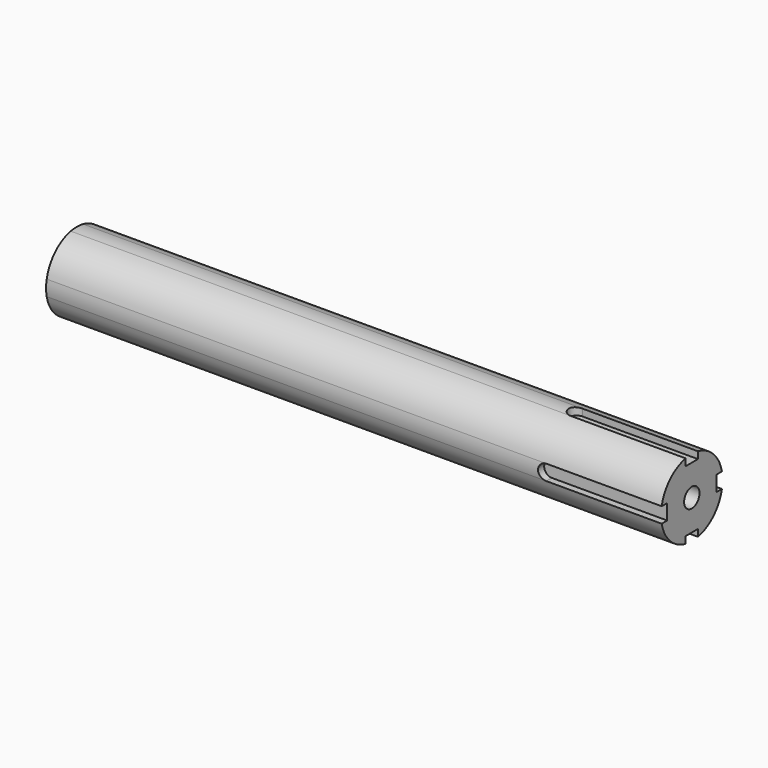
from build123d import *

# Parameters (mm, degrees)
F0_W      = 4
F0_H      = 4
F1_DEPTH  = 30
F2_DEPTH  = 130
F3_R      = 2
F4_DEPTH  = 25
F5_R      = 2
F6_DEPTH  = 25
F7_R      = 2
F8_DEPTH  = 25
F9_R      = 2
F10_DEPTH = 25
F12_D     = 5
F12_DEPTH = 20
F12_TIP   = 1.5021515476


with BuildPart() as f1:
    # F0 (on Right) → F1 (new body)
    with BuildSketch(Plane.YZ):
        with BuildLine():
            ThreePointArc((2, 7.2284161474), (5.3033008589, 5.3033008589), (7.2284161474, 2))
            Line((7.2284161474, 2), (8, 2))
            Line((8, 2), (9.7979589711, 2))
            ThreePointArc((9.7979589711, 2), (7.0710678119, 7.0710678119), (2, 9.7979589711))
            Line((2, 9.7979589711), (2, 8))
            Line((2, 8), (2, 7.2284161474))
        make_face()
        with BuildLine():
            ThreePointArc((-7.2284161474, 2), (-5.3033008589, 5.3033008589), (-2, 7.2284161474))
            Line((-2, 7.2284161474), (-2, 8))
            Line((-2, 8), (-2, 9.7979589711))
            ThreePointArc((-2, 9.7979589711), (-7.0710678119, 7.0710678119), (-9.7979589711, 2))
            Line((-9.7979589711, 2), (-8, 2))
            Line((-8, 2), (-7.2284161474, 2))
        make_face()
        with BuildLine():
            Line((2, 2), (7.2284161474, 2))
            ThreePointArc((7.2284161474, 2), (5.3033008589, 5.3033008589), (2, 7.2284161474))
            Line((2, 7.2284161474), (2, 2))
        make_face()
        with BuildLine():
            Line((2, 2), (2, 7.2284161474))
            ThreePointArc((2, 7.2284161474), (0, 7.5), (-2, 7.2284161474))
            Line((-2, 7.2284161474), (-2, 2))
            Line((-2, 2), (2, 2))
        make_face()
        with BuildLine():
            Line((-2, 2), (-2, 7.2284161474))
            ThreePointArc((-2, 7.2284161474), (-5.3033008589, 5.3033008589), (-7.2284161474, 2))
            Line((-7.2284161474, 2), (-2, 2))
        make_face()
        with BuildLine():
            Line((-2, -2), (-2, 2))
            Line((-2, 2), (-7.2284161474, 2))
            ThreePointArc((-7.2284161474, 2), (-7.5, 0), (-7.2284161474, -2))
            Line((-7.2284161474, -2), (-2, -2))
        make_face()
        with BuildLine():
            ThreePointArc((7.2284161474, -2), (7.4317938987, -1.0091776094), (7.5, 0))
            ThreePointArc((7.5, 0), (7.4317938987, 1.0091776094), (7.2284161474, 2))
            Line((7.2284161474, 2), (2, 2))
            Line((2, 2), (2, -2))
            Line((2, -2), (7.2284161474, -2))
        make_face()
        Rectangle(F0_W, F0_H)
        with BuildLine():
            ThreePointArc((-2, -7.2284161474), (0, -7.5), (2, -7.2284161474))
            Line((2, -7.2284161474), (2, -2))
            Line((2, -2), (-2, -2))
            Line((-2, -2), (-2, -7.2284161474))
        make_face()
        with BuildLine():
            ThreePointArc((-7.2284161474, -2), (-5.3033008589, -5.3033008589), (-2, -7.2284161474))
            Line((-2, -7.2284161474), (-2, -2))
            Line((-2, -2), (-7.2284161474, -2))
        make_face()
        with BuildLine():
            ThreePointArc((2, -7.2284161474), (5.3033008589, -5.3033008589), (7.2284161474, -2))
            Line((7.2284161474, -2), (2, -2))
            Line((2, -2), (2, -7.2284161474))
        make_face()
        with BuildLine():
            Line((8, -2), (7.2284161474, -2))
            ThreePointArc((7.2284161474, -2), (5.3033008589, -5.3033008589), (2, -7.2284161474))
            Line((2, -7.2284161474), (2, -8))
            Line((2, -8), (2, -9.7979589711))
            ThreePointArc((2, -9.7979589711), (7.0710678119, -7.0710678119), (9.7979589711, -2))
            Line((9.7979589711, -2), (8, -2))
        make_face()
        with BuildLine():
            Line((-2, -8), (-2, -7.2284161474))
            ThreePointArc((-2, -7.2284161474), (-5.3033008589, -5.3033008589), (-7.2284161474, -2))
            Line((-7.2284161474, -2), (-8, -2))
            Line((-8, -2), (-9.7979589711, -2))
            ThreePointArc((-9.7979589711, -2), (-7.0710678119, -7.0710678119), (-2, -9.7979589711))
            Line((-2, -9.7979589711), (-2, -8))
        make_face()
        with BuildLine():
            Line((2, -8), (2, -7.2284161474))
            ThreePointArc((2, -7.2284161474), (0, -7.5), (-2, -7.2284161474))
            Line((-2, -7.2284161474), (-2, -8))
            Line((-2, -8), (2, -8))
        make_face()
        with BuildLine():
            ThreePointArc((7.2284161474, 2), (7.4317938987, 1.0091776094), (7.5, 0))
            ThreePointArc((7.5, 0), (7.4317938987, -1.0091776094), (7.2284161474, -2))
            Line((7.2284161474, -2), (8, -2))
            Line((8, -2), (8, 2))
            Line((8, 2), (7.2284161474, 2))
        make_face()
        with BuildLine():
            ThreePointArc((-2, 7.2284161474), (0, 7.5), (2, 7.2284161474))
            Line((2, 7.2284161474), (2, 8))
            Line((2, 8), (-2, 8))
            Line((-2, 8), (-2, 7.2284161474))
        make_face()
        with BuildLine():
            ThreePointArc((-7.2284161474, -2), (-7.5, 0), (-7.2284161474, 2))
            Line((-7.2284161474, 2), (-8, 2))
            Line((-8, 2), (-8, -2))
            Line((-8, -2), (-7.2284161474, -2))
        make_face()
    extrude(amount=F1_DEPTH)

    # F0 (on Right) → F2 (join)
    with BuildSketch(Plane.YZ):
        with BuildLine():
            Line((-2, 8), (2, 8))
            Line((2, 8), (2, 9.7979589711))
            ThreePointArc((2, 9.7979589711), (0, 10), (-2, 9.7979589711))
            Line((-2, 9.7979589711), (-2, 8))
        make_face()
        with BuildLine():
            ThreePointArc((2, 7.2284161474), (5.3033008589, 5.3033008589), (7.2284161474, 2))
            Line((7.2284161474, 2), (8, 2))
            Line((8, 2), (9.7979589711, 2))
            ThreePointArc((9.7979589711, 2), (7.0710678119, 7.0710678119), (2, 9.7979589711))
            Line((2, 9.7979589711), (2, 8))
            Line((2, 8), (2, 7.2284161474))
        make_face()
        with BuildLine():
            ThreePointArc((-2, 7.2284161474), (0, 7.5), (2, 7.2284161474))
            Line((2, 7.2284161474), (2, 8))
            Line((2, 8), (-2, 8))
            Line((-2, 8), (-2, 7.2284161474))
        make_face()
        with BuildLine():
            ThreePointArc((-7.2284161474, 2), (-5.3033008589, 5.3033008589), (-2, 7.2284161474))
            Line((-2, 7.2284161474), (-2, 8))
            Line((-2, 8), (-2, 9.7979589711))
            ThreePointArc((-2, 9.7979589711), (-7.0710678119, 7.0710678119), (-9.7979589711, 2))
            Line((-9.7979589711, 2), (-8, 2))
            Line((-8, 2), (-7.2284161474, 2))
        make_face()
        with BuildLine():
            ThreePointArc((-7.2284161474, -2), (-7.5, 0), (-7.2284161474, 2))
            Line((-7.2284161474, 2), (-8, 2))
            Line((-8, 2), (-8, -2))
            Line((-8, -2), (-7.2284161474, -2))
        make_face()
        with BuildLine():
            Line((-8, -2), (-8, 2))
            Line((-8, 2), (-9.7979589711, 2))
            ThreePointArc((-9.7979589711, 2), (-10, 0), (-9.7979589711, -2))
            Line((-9.7979589711, -2), (-8, -2))
        make_face()
        with BuildLine():
            Line((-2, 2), (-2, 7.2284161474))
            ThreePointArc((-2, 7.2284161474), (-5.3033008589, 5.3033008589), (-7.2284161474, 2))
            Line((-7.2284161474, 2), (-2, 2))
        make_face()
        with BuildLine():
            Line((2, 2), (2, 7.2284161474))
            ThreePointArc((2, 7.2284161474), (0, 7.5), (-2, 7.2284161474))
            Line((-2, 7.2284161474), (-2, 2))
            Line((-2, 2), (2, 2))
        make_face()
        with BuildLine():
            Line((2, 2), (7.2284161474, 2))
            ThreePointArc((7.2284161474, 2), (5.3033008589, 5.3033008589), (2, 7.2284161474))
            Line((2, 7.2284161474), (2, 2))
        make_face()
        with BuildLine():
            Line((9.7979589711, 2), (8, 2))
            Line((8, 2), (8, -2))
            Line((8, -2), (9.7979589711, -2))
            ThreePointArc((9.7979589711, -2), (9.9493615301, -1.0050896201), (10, 0))
            ThreePointArc((10, 0), (9.9493615301, 1.0050896201), (9.7979589711, 2))
        make_face()
        with BuildLine():
            ThreePointArc((7.2284161474, 2), (7.4317938987, 1.0091776094), (7.5, 0))
            ThreePointArc((7.5, 0), (7.4317938987, -1.0091776094), (7.2284161474, -2))
            Line((7.2284161474, -2), (8, -2))
            Line((8, -2), (8, 2))
            Line((8, 2), (7.2284161474, 2))
        make_face()
        with BuildLine():
            ThreePointArc((7.2284161474, -2), (7.4317938987, -1.0091776094), (7.5, 0))
            ThreePointArc((7.5, 0), (7.4317938987, 1.0091776094), (7.2284161474, 2))
            Line((7.2284161474, 2), (2, 2))
            Line((2, 2), (2, -2))
            Line((2, -2), (7.2284161474, -2))
        make_face()
        Rectangle(F0_W, F0_H)
        with BuildLine():
            Line((-2, -2), (-2, 2))
            Line((-2, 2), (-7.2284161474, 2))
            ThreePointArc((-7.2284161474, 2), (-7.5, 0), (-7.2284161474, -2))
            Line((-7.2284161474, -2), (-2, -2))
        make_face()
        with BuildLine():
            ThreePointArc((-7.2284161474, -2), (-5.3033008589, -5.3033008589), (-2, -7.2284161474))
            Line((-2, -7.2284161474), (-2, -2))
            Line((-2, -2), (-7.2284161474, -2))
        make_face()
        with BuildLine():
            Line((-2, -8), (-2, -7.2284161474))
            ThreePointArc((-2, -7.2284161474), (-5.3033008589, -5.3033008589), (-7.2284161474, -2))
            Line((-7.2284161474, -2), (-8, -2))
            Line((-8, -2), (-9.7979589711, -2))
            ThreePointArc((-9.7979589711, -2), (-7.0710678119, -7.0710678119), (-2, -9.7979589711))
            Line((-2, -9.7979589711), (-2, -8))
        make_face()
        with BuildLine():
            Line((2, -8), (2, -7.2284161474))
            ThreePointArc((2, -7.2284161474), (0, -7.5), (-2, -7.2284161474))
            Line((-2, -7.2284161474), (-2, -8))
            Line((-2, -8), (2, -8))
        make_face()
        with BuildLine():
            Line((2, -9.7979589711), (2, -8))
            Line((2, -8), (-2, -8))
            Line((-2, -8), (-2, -9.7979589711))
            ThreePointArc((-2, -9.7979589711), (0, -10), (2, -9.7979589711))
        make_face()
        with BuildLine():
            ThreePointArc((2, -7.2284161474), (5.3033008589, -5.3033008589), (7.2284161474, -2))
            Line((7.2284161474, -2), (2, -2))
            Line((2, -2), (2, -7.2284161474))
        make_face()
        with BuildLine():
            Line((8, -2), (7.2284161474, -2))
            ThreePointArc((7.2284161474, -2), (5.3033008589, -5.3033008589), (2, -7.2284161474))
            Line((2, -7.2284161474), (2, -8))
            Line((2, -8), (2, -9.7979589711))
            ThreePointArc((2, -9.7979589711), (7.0710678119, -7.0710678119), (9.7979589711, -2))
            Line((9.7979589711, -2), (8, -2))
        make_face()
        with BuildLine():
            ThreePointArc((-2, -7.2284161474), (0, -7.5), (2, -7.2284161474))
            Line((2, -7.2284161474), (2, -2))
            Line((2, -2), (-2, -2))
            Line((-2, -2), (-2, -7.2284161474))
        make_face()
    extrude(amount=-F2_DEPTH)

    # F3 (on face) → F4 (cut)
    with BuildSketch(Plane.XY.offset(8)):
        Circle(F3_R)
    extrude(amount=F4_DEPTH, mode=Mode.SUBTRACT)

    # F5 (on face) → F6 (cut)
    with BuildSketch(Plane.XZ.offset(8)):
        Circle(F5_R)
    extrude(amount=F6_DEPTH, mode=Mode.SUBTRACT)

    # F7 (on face) → F8 (cut)
    with BuildSketch(Plane(origin=(0, 0, -8), x_dir=(1, 0, 0), z_dir=(0, 0, -1))):
        Circle(F7_R)
    extrude(amount=F8_DEPTH, mode=Mode.SUBTRACT)

    # F9 (on face) → F10 (cut)
    with BuildSketch(Plane(origin=(0, 8, 0), x_dir=(-1, 0, 0), z_dir=(0, 1, 0))):
        Circle(F9_R)
    extrude(amount=F10_DEPTH, mode=Mode.SUBTRACT)

    # F12
    with Locations(Plane.YZ.offset(30)):
        with Locations((0, 0)):
            Hole(F12_D / 2, depth=F12_DEPTH)
            with Locations((0, 0, -(F12_DEPTH + F12_TIP / 2))):  # 118° drill point
                Cone(0, F12_D / 2, F12_TIP, mode=Mode.SUBTRACT)


solid = f1.part
